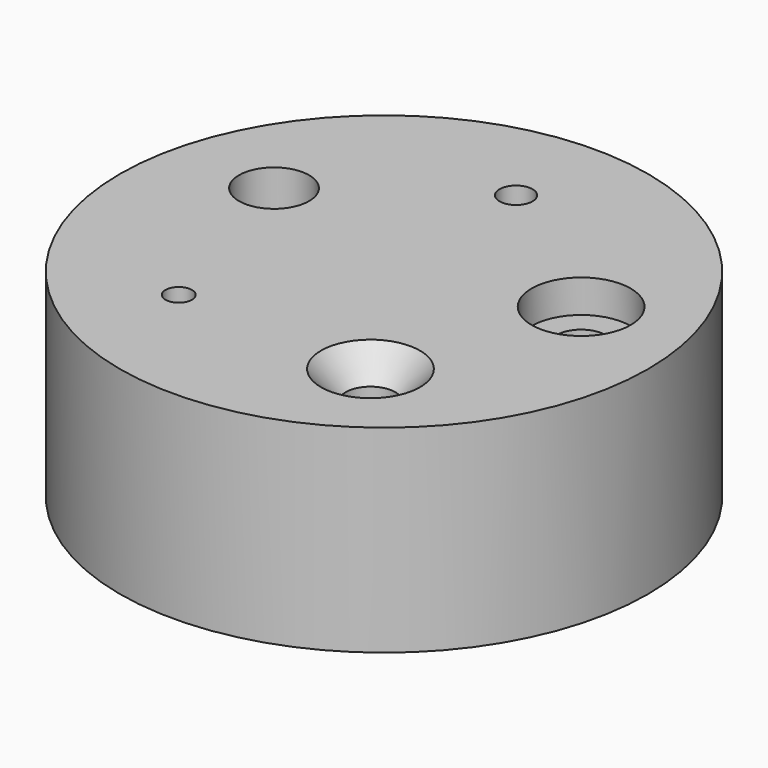
from build123d import *

# Parameters (mm, degrees)
F0_R           = 50.8
F1_DEPTH       = 38.1
F4_D           = 6.35
F5_D           = 9.525
F5_CBORE_D     = 19.05
F5_CBORE_DEPTH = 6.35
F6_D           = 9.525
F6_CSINK_D     = 19.05
F6_CSINK_ANGLE = 82
F7_D           = 5.1054
F8_D           = 13.49248


with BuildPart() as f1:
    # F0 (on Top) → F1 (new body)
    with BuildSketch(Plane.XY):
        Circle(F0_R)
    extrude(amount=F1_DEPTH)

    # F4 (through all)
    with Locations(Plane.XY.offset(38.1)):
        with Locations((0, 31.75)):
            Hole(F4_D / 2)

    # F5 (through all)
    with Locations(Plane.XY.offset(38.1)):
        with Locations((30.2805131863, 9.5474091343)):
            CounterBoreHole(F5_D / 2, F5_CBORE_D / 2, F5_CBORE_DEPTH)

    # F6 (through all)
    with Locations(Plane.XY.offset(38.1)):
        with Locations((18.2110518541, -26.0080774062)):
            CounterSinkHole(F6_D / 2, F6_CSINK_D / 2, counter_sink_angle=F6_CSINK_ANGLE)

    # F7 (through all)
    with Locations(Plane.XY.offset(38.1)):
        with Locations((-19.328175371, -25.1889685542)):
            Hole(F7_D / 2)

    # F8 (through all)
    with Locations(Plane.XY.offset(38.1)):
        with Locations((-29.83524071, 10.8591395506)):
            Hole(F8_D / 2)


solid = f1.part
